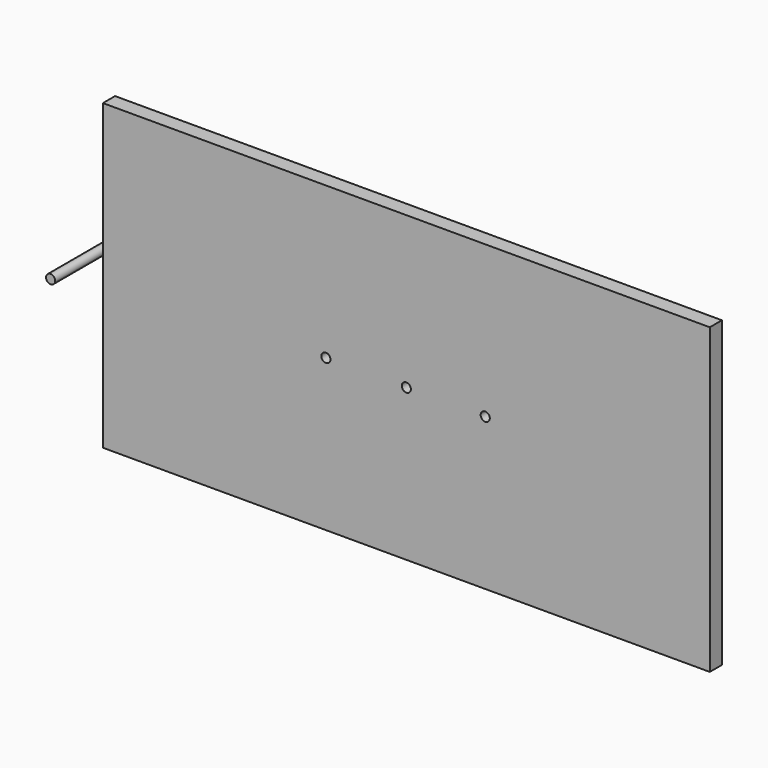
from build123d import *

# Parameters (mm, degrees)
F0_W     = 200
F0_H     = 100
F1_DEPTH = 2.5
F2_R     = 1.5
F3_DEPTH = 25
F4_R     = 1.5
F5_DEPTH = 12.5


with BuildPart() as f1:
    # F0 (on Front) → F1 (new body, symmetric)
    with BuildSketch(Plane.XZ):
        Rectangle(F0_W, F0_H)
    extrude(amount=F1_DEPTH, both=True)

    # F2 (on face) → F3 (cut)
    with BuildSketch(Plane.XZ.offset(2.5)):
        with Locations((-26.5, 0)):
            Circle(F2_R)
        Circle(F2_R)
        with Locations((26, 0)):
            Circle(F2_R)
    extrude(amount=-F3_DEPTH, mode=Mode.SUBTRACT)


with BuildPart() as f5:
    # F4 (on Front) → F5 (new body, symmetric)
    with BuildSketch(Plane.XZ):
        with Locations((-109.232197, 0)):
            Circle(F4_R)
    extrude(amount=F5_DEPTH, both=True)


solid = Compound([f1.part, f5.part])
